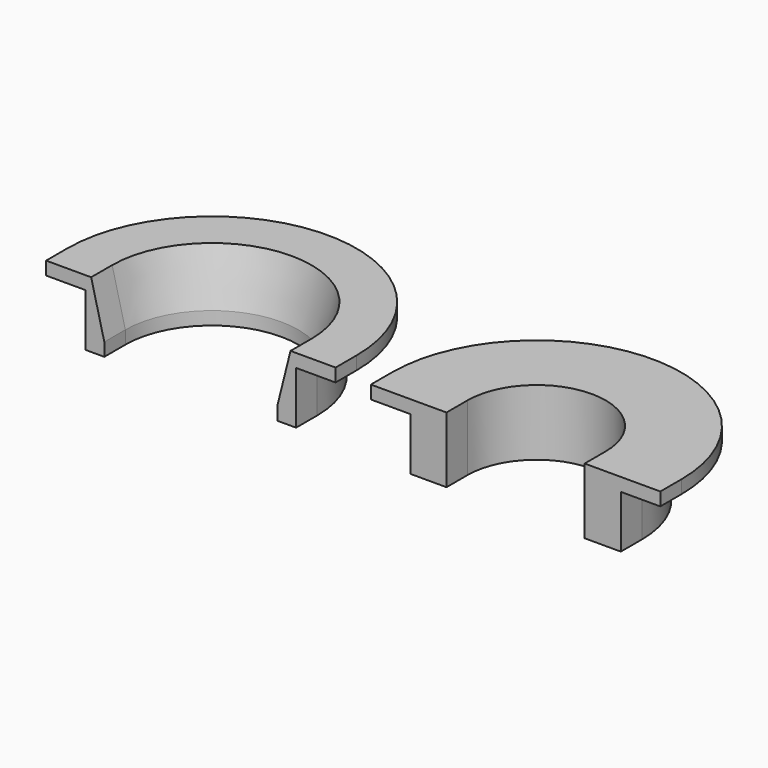
from build123d import *

# Parameters (mm, degrees)
F1_DEPTH = 10
F2_DEPTH = 8
F4_DEPTH = 2
F5_SIZE2 = 2
F5_SIZE  = 8
F7_DEPTH = 2


with BuildPart() as f1:
    # F0 (on Top) → F1 (new body)
    with BuildSketch(Plane.XY):
        with BuildLine():
            ThreePointArc((-35.2718485385, 12.1213712692), (-22.1218485385, 25.2713712692), (-8.9718485385, 12.1213712692))
            Line((-8.9718485385, 12.1213712692), (-8.9718485385, 8.1213712692))
            Line((-8.9718485385, 8.1213712692), (-6.1218485385, 8.1213712692))
            Line((-6.1218485385, 8.1213712692), (-6.1218485385, 12.1213712692))
            ThreePointArc((-6.1218485385, 12.1213712692), (-22.1218485385, 28.1213712692), (-38.1218485385, 12.1213712692))
            Line((-38.1218485385, 12.1213712692), (-38.1218485385, 8.1213712692))
            Line((-38.1218485385, 8.1213712692), (-35.2718485385, 8.1213712692))
            Line((-35.2718485385, 8.1213712692), (-35.2718485385, 12.1213712692))
        make_face()
    extrude(amount=F1_DEPTH)

    # F5
    f5_edges = [f1.edges().sort_by_distance(p)[0] for p in [
        (-22.121849, 25.271371, 10),
    ]]
    f5_side = f1.faces().sort_by_distance((-22.121849, 25.271371, 5))[0]
    chamfer(f5_edges, length=F5_SIZE, length2=F5_SIZE2, reference=f5_side)

    # F6 (on face) → F7 (join)
    with BuildSketch(Plane.XY.offset(10)):
        with BuildLine():
            ThreePointArc((-0.1218485385, 12.1213712692), (-22.1218485385, 34.1213712692), (-44.1218485385, 12.1213712692))
            Line((-44.1218485385, 12.1213712692), (-44.1218485385, 8.1213712692))
            Line((-44.1218485385, 8.1213712692), (-38.1218485385, 8.1213712692))
            Line((-38.1218485385, 8.1213712692), (-38.1218485385, 12.1213712692))
            ThreePointArc((-38.1218485385, 12.1213712692), (-22.1218485385, 28.1213712692), (-6.1218485385, 12.1213712692))
            Line((-6.1218485385, 12.1213712692), (-6.1218485385, 8.1213712692))
            Line((-6.1218485385, 8.1213712692), (-0.1218485385, 8.1213712692))
            Line((-0.1218485385, 8.1213712692), (-0.1218485385, 12.1213712692))
        make_face()
    extrude(amount=-F7_DEPTH)


with BuildPart() as f2:
    # F0 (on Top) → F2 (new body)
    with BuildSketch(Plane.XY):
        with BuildLine():
            ThreePointArc((17.3781514615, 11.3211924173), (27.8781514615, 21.8211924173), (38.3781514615, 11.3211924173))
            Line((38.3781514615, 11.3211924173), (38.3781514615, 7.3211924173))
            Line((38.3781514615, 7.3211924173), (43.8781514615, 7.3211924173))
            Line((43.8781514615, 7.3211924173), (43.8781514615, 11.3211924173))
            ThreePointArc((43.8781514615, 11.3211924173), (27.8781514615, 27.3211924173), (11.8781514615, 11.3211924173))
            Line((11.8781514615, 11.3211924173), (11.8781514615, 7.3211924173))
            Line((11.8781514615, 7.3211924173), (17.3781514615, 7.3211924173))
            Line((17.3781514615, 7.3211924173), (17.3781514615, 11.3211924173))
        make_face()
    extrude(amount=F2_DEPTH)

    # F3 (on face) → F4 (join)
    with BuildSketch(Plane.XY.offset(8)):
        with BuildLine():
            ThreePointArc((49.8781514615, 11.3211924173), (27.8781514615, 33.3211924173), (5.8781514615, 11.3211924173))
            Line((5.8781514615, 11.3211924173), (5.8781514615, 7.3211924173))
            Line((5.8781514615, 7.3211924173), (11.8781514615, 7.3211924173))
            Line((11.8781514615, 7.3211924173), (11.8781514615, 11.3211924173))
            ThreePointArc((11.8781514615, 11.3211924173), (27.8781514615, 27.3211924173), (43.8781514615, 11.3211924173))
            Line((43.8781514615, 11.3211924173), (43.8781514615, 7.3211924173))
            Line((43.8781514615, 7.3211924173), (49.8781514615, 7.3211924173))
            Line((49.8781514615, 7.3211924173), (49.8781514615, 11.3211924173))
        make_face()
        with BuildLine():
            Line((11.8781514615, 11.3211924173), (11.8781514615, 7.3211924173))
            Line((11.8781514615, 7.3211924173), (17.3781514615, 7.3211924173))
            Line((17.3781514615, 7.3211924173), (17.3781514615, 11.3211924173))
            ThreePointArc((17.3781514615, 11.3211924173), (27.8781514615, 21.8211924173), (38.3781514615, 11.3211924173))
            Line((38.3781514615, 11.3211924173), (38.3781514615, 7.3211924173))
            Line((38.3781514615, 7.3211924173), (43.8781514615, 7.3211924173))
            Line((43.8781514615, 7.3211924173), (43.8781514615, 11.3211924173))
            ThreePointArc((43.8781514615, 11.3211924173), (27.8781514615, 27.3211924173), (11.8781514615, 11.3211924173))
        make_face()
        with BuildLine():
            Line((11.8781514615, 11.3211924173), (11.8781514615, 7.3211924173))
            Line((11.8781514615, 7.3211924173), (17.3781514615, 7.3211924173))
            Line((17.3781514615, 7.3211924173), (17.3781514615, 11.3211924173))
            ThreePointArc((17.3781514615, 11.3211924173), (27.8781514615, 21.8211924173), (38.3781514615, 11.3211924173))
            Line((38.3781514615, 11.3211924173), (38.3781514615, 7.3211924173))
            Line((38.3781514615, 7.3211924173), (43.8781514615, 7.3211924173))
            Line((43.8781514615, 7.3211924173), (43.8781514615, 11.3211924173))
            ThreePointArc((43.8781514615, 11.3211924173), (27.8781514615, 27.3211924173), (11.8781514615, 11.3211924173))
        make_face()
    extrude(amount=F4_DEPTH)


solid = Compound([f1.part, f2.part])
